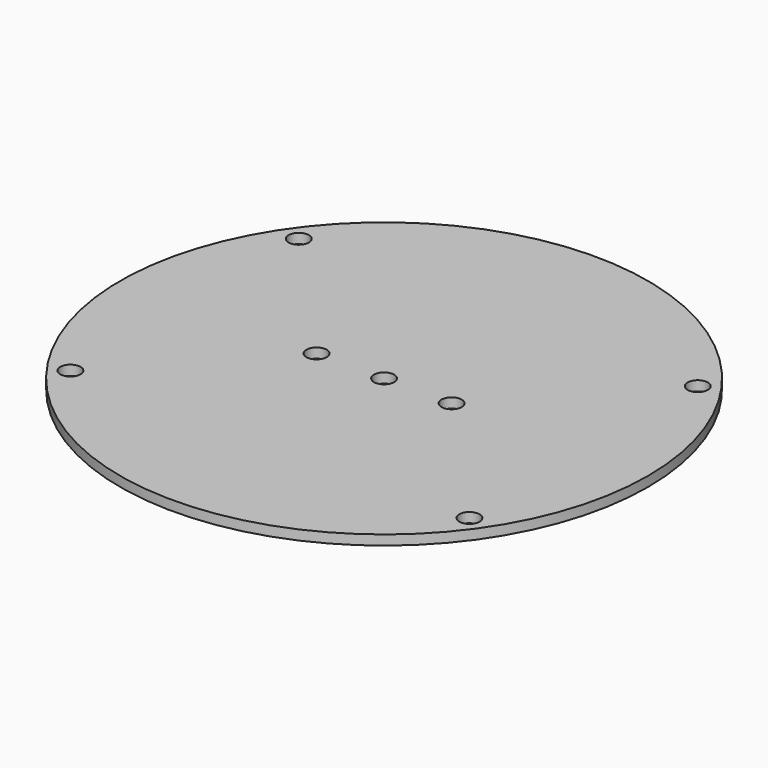
from build123d import *

# Parameters (mm, degrees)
F0_R     = 43
F0_R_2   = 1.65
F0_R_3   = 25
F1_DEPTH = 1.6


with BuildPart() as f1:
    # F0 (on Top) → F1 (new body)
    with BuildSketch(Plane.XY):
        Circle(F0_R)
        with Locations((-32.5, -23.25)):
            Circle(F0_R_2, mode=Mode.SUBTRACT)
        with Locations((32.5, -23.25)):
            Circle(F0_R_2, mode=Mode.SUBTRACT)
        with Locations((-32.5, 23.25)):
            Circle(F0_R_2, mode=Mode.SUBTRACT)
        Circle(F0_R_3, mode=Mode.SUBTRACT)
        with Locations((32.5, 23.25)):
            Circle(F0_R_2, mode=Mode.SUBTRACT)
        Circle(F0_R_3)
        with Locations((-11, 0)):
            Circle(F0_R_2, mode=Mode.SUBTRACT)
        Circle(F0_R_2, mode=Mode.SUBTRACT)
        with Locations((11, 0)):
            Circle(F0_R_2, mode=Mode.SUBTRACT)
    extrude(amount=F1_DEPTH)


solid = f1.part
